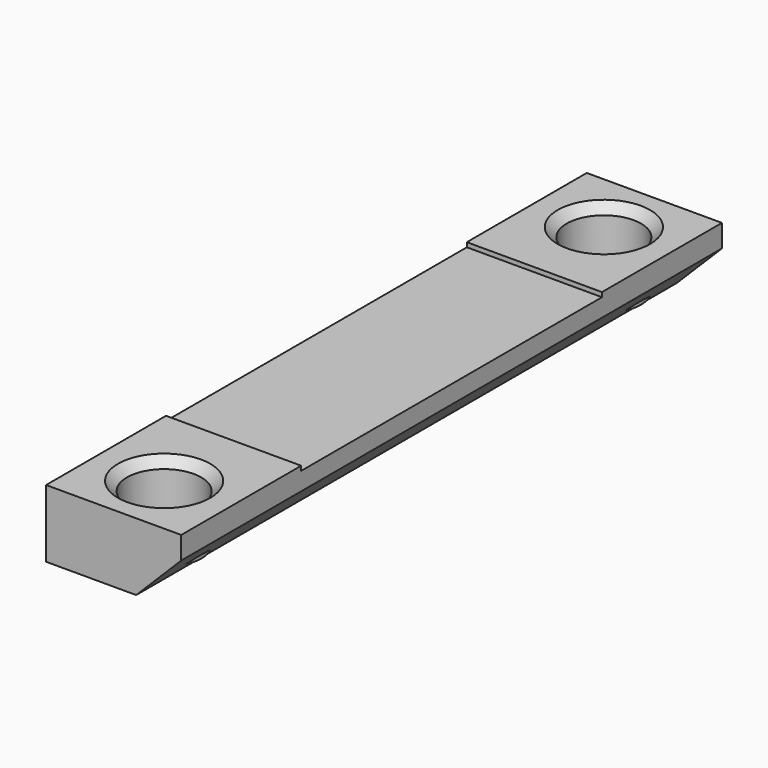
from build123d import *

# Parameters (mm, degrees)
SKETCH_W        = 6
SKETCH_H        = 30
PAD_DEPTH       = 3
SKETCH001_R     = 1.65
POCKET_DEPTH    = 2.5
CHAMFER_SIZE    = 0.4
SKETCH002_W     = 9.60586
SKETCH002_H     = 16.689732
POCKET001_DEPTH = 0.2
CHAMFER001_SIZE = 2


with BuildPart() as part:
    # Sketch → Pad (new body)
    with BuildSketch(Plane.XY):
        Rectangle(SKETCH_W, SKETCH_H)
    extrude(amount=PAD_DEPTH)

    # Sketch001 (on Face6 of Pad) → Pocket (cut)
    with BuildSketch(Plane.XY.offset(3)):
        with Locations((0, 12.2)):
            Circle(SKETCH001_R)
        with Locations((0, -12.2)):
            Circle(SKETCH001_R)
    extrude(amount=-POCKET_DEPTH, mode=Mode.SUBTRACT)

    # Chamfer
    chamfer_edges = [part.edges().sort_by_distance(p)[0] for p in [
        (-1.65, 12.2, 3),
        (-1.65, -12.2, 3),
    ]]
    chamfer(chamfer_edges, length=CHAMFER_SIZE)

    # Sketch002 (on Face1 of Chamfer) → Pocket001 (cut)
    with BuildSketch(Plane.XY.offset(3)):
        Rectangle(SKETCH002_W, SKETCH002_H)
    extrude(amount=-POCKET001_DEPTH, mode=Mode.SUBTRACT)

    # Chamfer001
    chamfer001_edges = [part.edges().sort_by_distance(p)[0] for p in [
        (3, 0, 0),
    ]]
    chamfer(chamfer001_edges, length=CHAMFER001_SIZE)


solid = part.part
